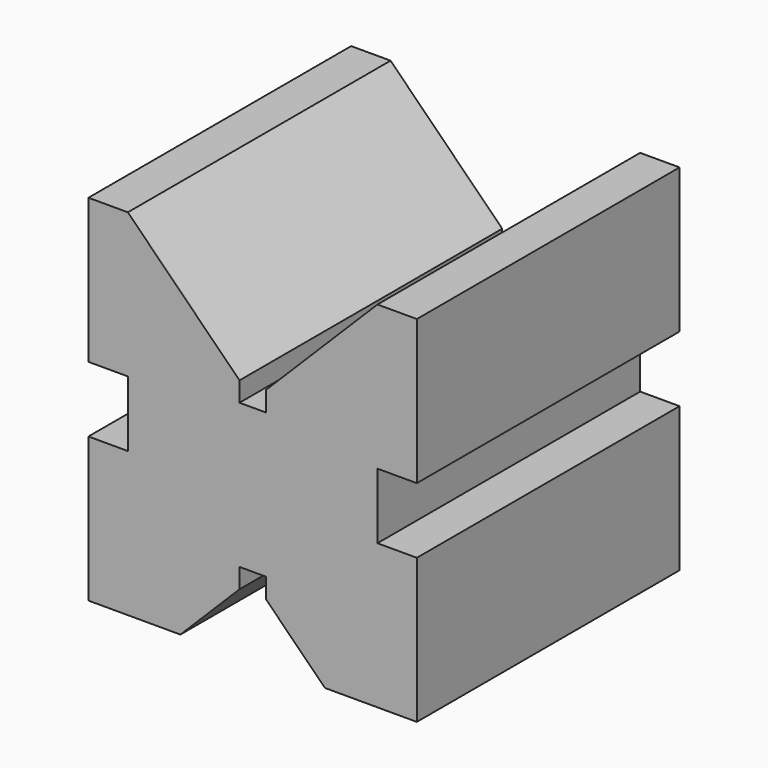
from build123d import *

# Parameters (mm, degrees)
F1_DEPTH = 50


with BuildPart() as f1:
    # F0 (on Front) → F1 (new body)
    with BuildSketch(Plane.XZ):
        Polygon((0, 54), (-6, 54), (-23, 37), (-23, 34), (-25, 34), (-27, 34), (-27, 37), (-44, 54), (-50, 54), (-50, 32), (-44, 32), (-44, 22), (-50, 22), (-50, 0), (-36, 0), (-27, 9), (-27, 12), (-25, 12), (-23, 12), (-23, 9), (-14, 0), (0, 0), (0, 22), (-6, 22), (-6, 32), (0, 32), align=None)
    extrude(amount=F1_DEPTH)


solid = f1.part
